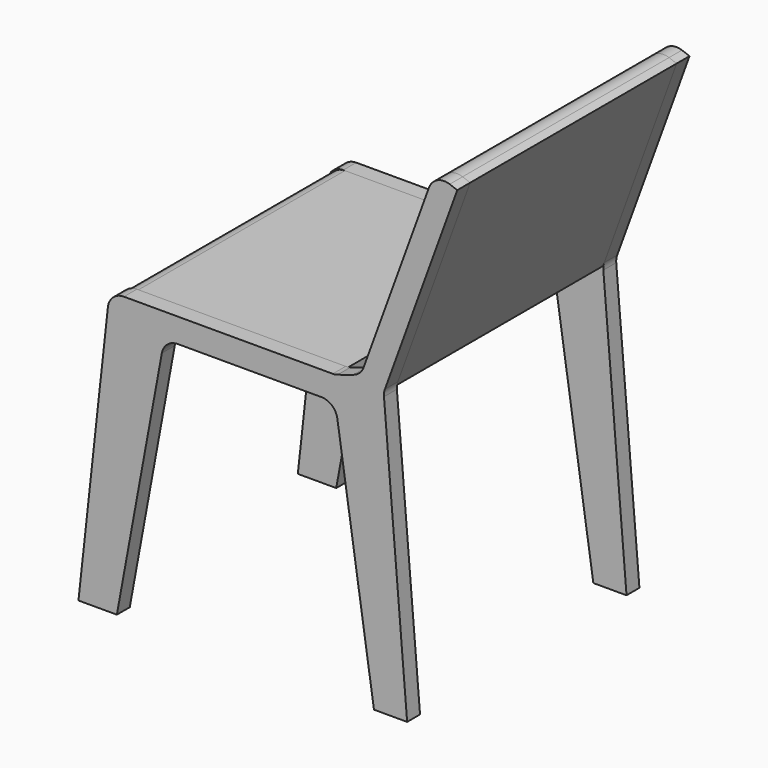
from build123d import *

# Parameters (mm, degrees)
F0_W          = 355.6
F0_H          = 38.1
F1_DEPTH      = 203.2
F1_DEPTH_BACK = 203.2
F4_DEPTH      = 25.4
F5_R          = 25.4
F5_2_R        = 25.4
F5_3_R        = 25.4


with BuildPart() as f1:
    # F0 (on Front) → F1 (new body, two sides)
    with BuildSketch(Plane.XZ) as f1_sk:
        with Locations((25.4, 425.45)):
            Rectangle(F0_W, F0_H)
    extrude(amount=F1_DEPTH)
    extrude(f1_sk.sketch, amount=-F1_DEPTH_BACK)

    # F5
    f5_edges = [f1.edges().sort_by_distance(p)[0] for p in [
        (-152.4, 0, 444.5),
    ]]
    fillet(f5_edges, radius=F5_R)


with BuildPart() as f1b:
    # F0 (on Front) → F1, piece 2 (new body, two sides)
    with BuildSketch(Plane.XZ) as f1_2_sk:
        Polygon((395.2786490417, 762.8739716389), (359.4763601897, 775.9049390996), (243.5977111481, 457.5309674607), (279.4, 444.5), align=None)
    extrude(amount=F1_DEPTH)
    extrude(f1_2_sk.sketch, amount=-F1_DEPTH_BACK)

    # F5#3
    f5_3_edges = [f1b.edges().sort_by_distance(p)[0] for p in [
        (359.47636, 0, 775.904939),
    ]]
    fillet(f5_3_edges, radius=F5_3_R)


with BuildPart() as f4:
    # F3 (on offset) → F4 (new body)
    with BuildSketch(Plane.XZ.offset(203.2)):
        Polygon((316.3440227509, 0), (279.4, 444.5), (395.2786490417, 762.8739716389), (359.4763601897, 775.9049390996), (243.5977111481, 457.5309674607), (203.2, 444.5), (-152.4, 444.5), (-201.2257277966, 0), (-140.7537162304, 0), (-66.108584404, 406.4), (203.2, 406.4), (264.0878558159, 0), align=None)
        Polygon((316.3440227509, 0), (279.4, 444.5), (395.2786490417, 762.8739716389), (359.4763601897, 775.9049390996), (243.5977111481, 457.5309674607), (203.2, 444.5), (-152.4, 444.5), (-201.2257277966, 0), (-140.7537162304, 0), (-66.108584404, 406.4), (203.2, 406.4), (264.0878558159, 0), align=None)
        Polygon((316.3440227509, 0), (279.4, 444.5), (395.2786490417, 762.8739716389), (359.4763601897, 775.9049390996), (243.5977111481, 457.5309674607), (203.2, 444.5), (-152.4, 444.5), (-201.2257277966, 0), (-140.7537162304, 0), (-66.108584404, 406.4), (203.2, 406.4), (264.0878558159, 0), align=None)
    extrude(amount=F4_DEPTH)

    # F5#2
    f5_2_edges = [f4.edges().sort_by_distance(p)[0] for p in [
        (-152.4, -215.9, 444.5),
        (359.47636, -215.9, 775.904939),
        (203.2, -215.9, 444.5),
        (243.597711, -215.9, 457.530967),
        (279.4, -215.9, 444.5),
        (203.2, -215.9, 406.4),
        (-66.108584, -215.9, 406.4),
    ]]
    fillet(f5_2_edges, radius=F5_2_R)


with BuildPart() as f6_1:
    # F6: instance of F4
    add(f4.part.mirror(Plane.XZ))


solid = Compound([f1.part, f1b.part, f4.part, f6_1.part])
